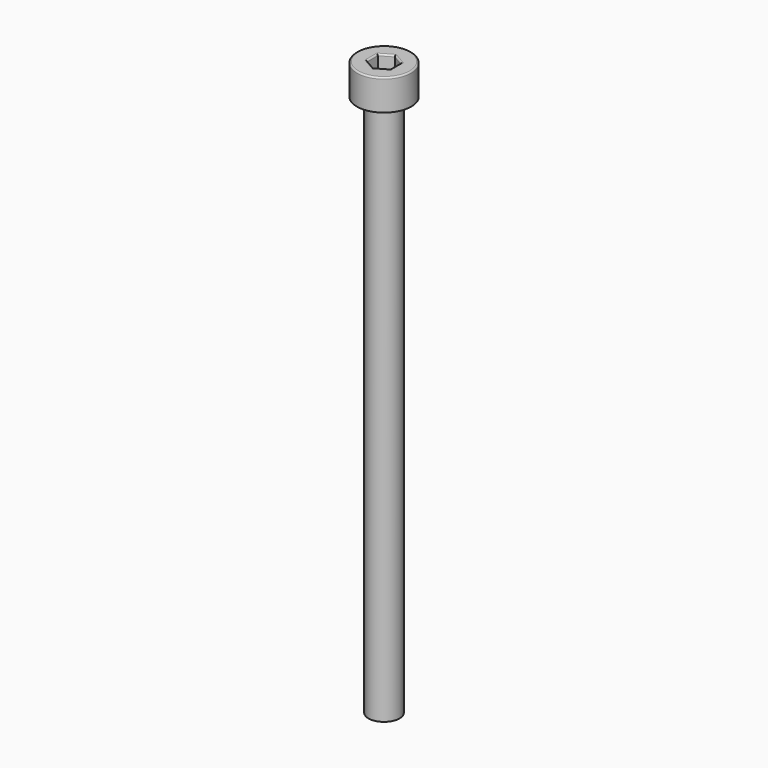
from build123d import *

# Parameters (mm, degrees)
F0_R     = 3.5
F0_R_2   = 2
F1_DEPTH = 4
F2_DEPTH = 70
F3_DEPTH = 1.5
F4_R     = 0.2


with BuildPart() as f1:
    # F0 (on Top) → F1 (new body)
    with BuildSketch(Plane.XY):
        Circle(F0_R)
        Circle(F0_R_2, mode=Mode.SUBTRACT)
        Circle(F0_R_2)
        Polygon((0, 1.732051), (1.5, 0.866025), (1.5, -0.866025), (0, -1.732051), (-1.5, -0.866025), (-1.5, 0.866025), align=None, mode=Mode.SUBTRACT)
    extrude(amount=F1_DEPTH)

    # F0 (on Top) → F2 (join)
    with BuildSketch(Plane.XY):
        Circle(F0_R_2)
        Polygon((0, 1.732051), (1.5, 0.866025), (1.5, -0.866025), (0, -1.732051), (-1.5, -0.866025), (-1.5, 0.866025), align=None, mode=Mode.SUBTRACT)
        Polygon((1.5, -0.866025), (1.5, 0.866025), (0, 1.732051), (-1.5, 0.866025), (-1.5, -0.866025), (0, -1.732051), align=None)
    extrude(amount=-F2_DEPTH)

    # F0 (on Top) → F3 (join)
    with BuildSketch(Plane.XY):
        Polygon((1.5, -0.866025), (1.5, 0.866025), (0, 1.732051), (-1.5, 0.866025), (-1.5, -0.866025), (0, -1.732051), align=None)
    extrude(amount=F3_DEPTH)

    # F4
    f4_edges = [f1.edges().sort_by_distance(p)[0] for p in [
        (-3.5, 0, 4),
        (-0.75, -1.299038, 4),
        (-1.5, 0, 4),
        (-0.75, 1.299038, 4),
        (0.75, 1.299038, 4),
        (1.5, 0, 4),
        (0.75, -1.299038, 4),
    ]]
    fillet(f4_edges, radius=F4_R)


solid = f1.part
